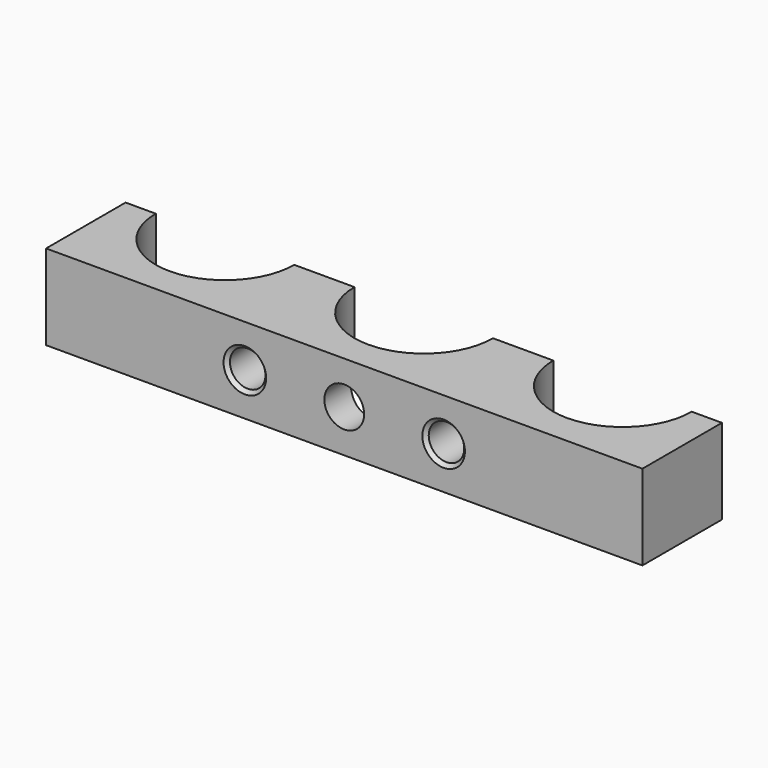
from build123d import *

# Parameters (mm, degrees)
SKETCH_W               = 84
SKETCH_H               = 14
PAD_DEPTH              = 12
SKETCH001_R            = 9.75
POCKET_DEPTH           = 12.001
LINEARPATTERN001_COUNT = 3
LINEARPATTERN001_PITCH = 28
HOLE_D                 = 5
HOLE_CSINK_D           = 6
HOLE_CSINK_ANGLE       = 90
LINEARPATTERN_COUNT    = 2
LINEARPATTERN_PITCH    = 28
SKETCH003_R            = 2.8
POCKET001_DEPTH        = 14.001


with BuildPart() as part:
    # Sketch → Pad (new body)
    with BuildSketch(Plane.XY):
        with Locations((42, 7)):
            Rectangle(SKETCH_W, SKETCH_H)
    extrude(amount=PAD_DEPTH)

    # Sketch001 (on DatumPlane) → Pocket (cut, through all)
    with BuildSketch(Plane.XY.offset(12)):
        with Locations((14, 14)):
            Circle(SKETCH001_R)
    pocket = extrude(amount=-POCKET_DEPTH, mode=Mode.SUBTRACT)

    # LinearPattern001: Pocket ×3
    with Locations(*[(i * LINEARPATTERN001_PITCH, 0, 0) for i in range(1, LINEARPATTERN001_COUNT)]):
        add(pocket, mode=Mode.SUBTRACT)

    # Hole (through all)
    with Locations(Plane.XZ):
        with Locations((28, 6)):
            hole = CounterSinkHole(HOLE_D / 2, HOLE_CSINK_D / 2, counter_sink_angle=HOLE_CSINK_ANGLE)

    # LinearPattern: Hole ×2
    with Locations(*[(i * LINEARPATTERN_PITCH, 0, 0) for i in range(1, LINEARPATTERN_COUNT)]):
        add(hole, mode=Mode.SUBTRACT)

    # Sketch003 → Pocket001 (cut, through all)
    with BuildSketch(Plane.XZ):
        with Locations((42, 6)):
            Circle(SKETCH003_R)
    extrude(amount=-POCKET001_DEPTH, mode=Mode.SUBTRACT)


solid = part.part
